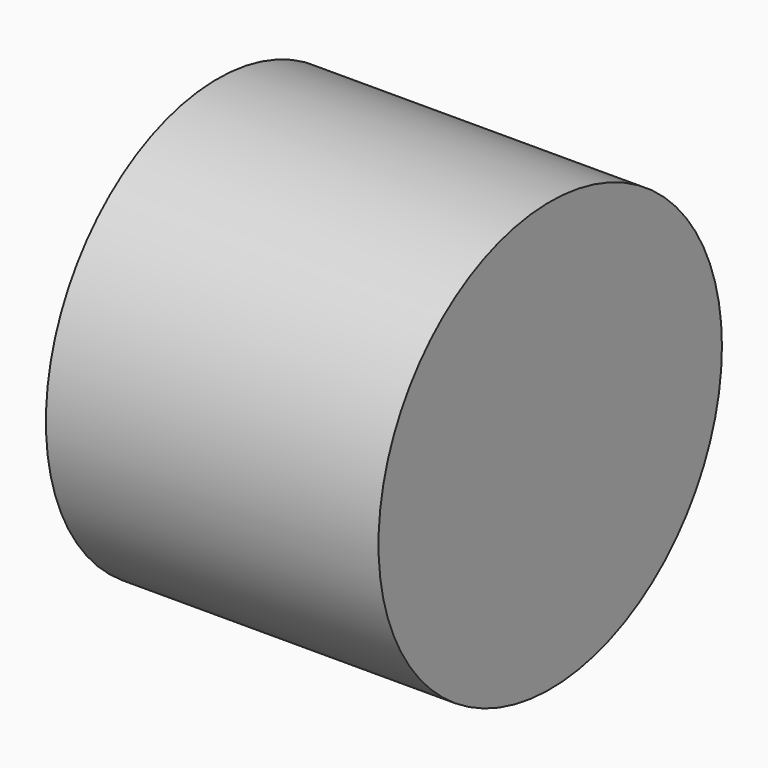
from build123d import *

# Parameters (mm, degrees)
F0_R     = 29.339073
F1_DEPTH = 45.466


with BuildPart() as f1:
    # F0 (on Right) → F1 (new body)
    with BuildSketch(Plane.YZ):
        Circle(F0_R)
        Circle(F0_R)
    extrude(amount=F1_DEPTH)


solid = f1.part
